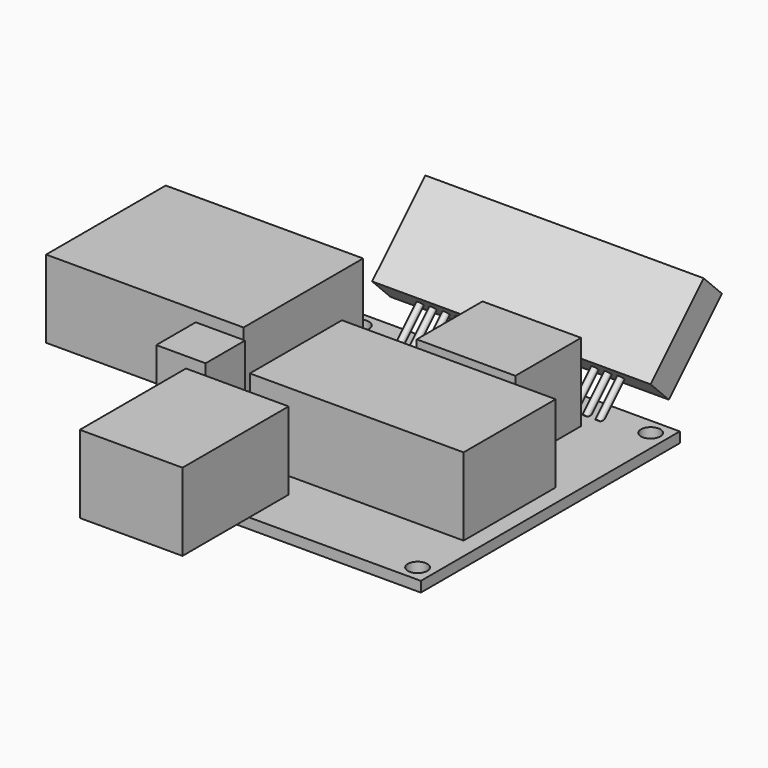
from build123d import *

# Parameters (mm, degrees)
F0_W     = 50
F0_H     = 50
F0_R     = 1.5
F1_DEPTH = 1.6
F2_W     = 33.02
F2_H     = 17.78
F2_W_2   = 15.24
F2_H_2   = 12.7
F2_W_3   = 6.35
F2_H_3   = 23.1
F2_W_4   = 24.15
F2_W_5   = 7.62
F2_H_4   = 7.62
F2_W_6   = 15.86
F2_H_5   = 12.88
F3_DEPTH = 12
F5_W     = 43
F5_H     = 14.5
F6_DEPTH = 5
F7_R     = 0.5
F8_DEPTH = 6


with BuildPart() as f1:
    # F0 (on Top) → F1 (new body)
    with BuildSketch(Plane.XY):
        Rectangle(F0_W, F0_H)
        with Locations((-22.5, -22.5)):
            Circle(F0_R, mode=Mode.SUBTRACT)
        with Locations((22.5, -22.5)):
            Circle(F0_R, mode=Mode.SUBTRACT)
        with Locations((-22.5, 22.5)):
            Circle(F0_R, mode=Mode.SUBTRACT)
        with Locations((22.5, 22.5)):
            Circle(F0_R, mode=Mode.SUBTRACT)
    extrude(amount=F1_DEPTH)

    # F2 (on face) → F3 (join)
    with BuildSketch(Plane.XY.offset(1.6)):
        with Locations((5.95, -4.68)):
            Rectangle(F2_W, F2_H)
        with Locations((7.22, 12.3)):
            Rectangle(F2_W_2, F2_H_2)
        with Locations((-21.825, 6.87)):
            Rectangle(F2_W_3, F2_H_3)
        with Locations((-37.075, 6.87)):
            Rectangle(F2_W_4, F2_H_3)
        with Locations((-20.19, -11.03)):
            Rectangle(F2_W_5, F2_H_4)
        with Locations((-9.45, -31.44)):
            Rectangle(F2_W_6, F2_H_5)
        with Locations((-9.45, -21.19)):
            Rectangle(F2_W_6, F2_H_4)
    extrude(amount=F3_DEPTH)



with BuildPart() as f6:
    # F5 (on face) → F6 (new body)
    with BuildSketch(Plane(origin=(0, 11.7, -11.7), x_dir=(1, 0, 0), z_dir=(0, 0.707107, -0.707107))):
        with Locations((0, -29.25)):
            Rectangle(F5_W, F5_H)
    extrude(amount=-F6_DEPTH)


with BuildPart() as f1_1:
    add(f1.part)

    add(f6.part)  # F8 merges F6
    # F7 (on face) → F8 (join)
    with BuildSketch(Plane(origin=(0, 15.556349, 15.556349), x_dir=(1, 0, 0), z_dir=(0, -0.707107, -0.707107))):
        with Locations((15.5, -14.046299)):
            Circle(F7_R)
        with Locations((13.5, -14.046299)):
            Circle(F7_R)
        with Locations((11.5, -14.046299)):
            Circle(F7_R)
        with Locations((-15.5, -14.046299)):
            Circle(F7_R)
        with Locations((-13.5, -14.046299)):
            Circle(F7_R)
        with Locations((-11.5, -14.046299)):
            Circle(F7_R)
        with Locations((-9.5, -14.046299)):
            Circle(F7_R)
    extrude(amount=F8_DEPTH)


solid = f1_1.part
